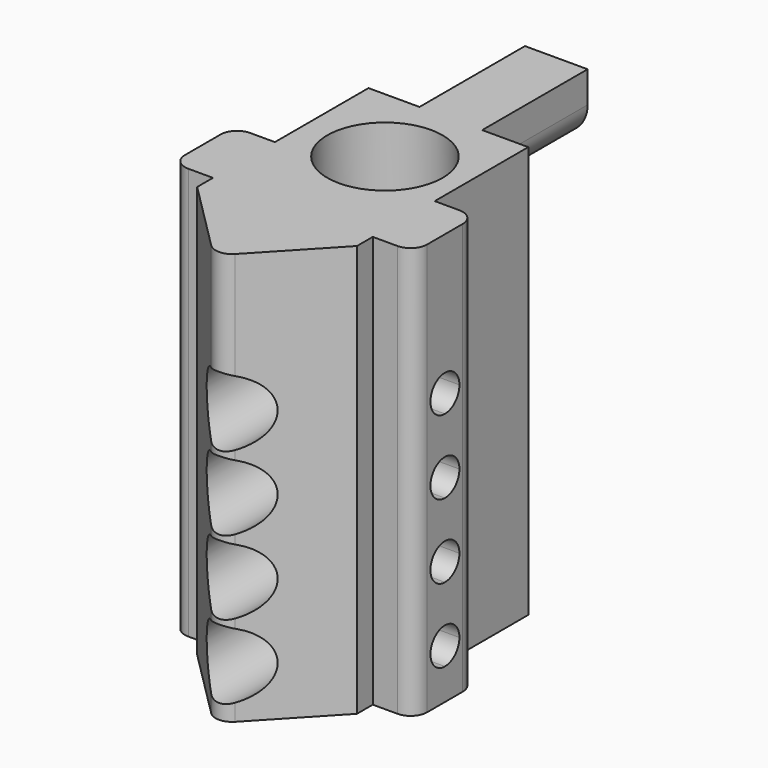
from build123d import *

# Parameters (mm, degrees)
F0_W      = 9.7
F0_H      = 7.1
F0_H_2    = 4.7
F0_W_2    = 2.5
F0_H_3    = 1.2
F1_DEPTH  = 25
F2_R      = 1
F3_R      = 2.1
F4_DEPTH  = 30
F6_DEPTH  = 8
F7_R      = 3.5
F8_DEPTH  = 5
F10_DEPTH = 6


with BuildPart() as f1:
    # F0 (on Top) → F1 (new body)
    with BuildSketch(Plane.XY):
        with Locations((-0.15, -0.179021287)):
            Rectangle(F0_W, F0_H)
        with Locations((-0.15, -6.079021287)):
            Rectangle(F0_W, F0_H_2)
        with Locations((-6.25, -6.079021287)):
            Rectangle(F0_W_2, F0_H_2)
        with Locations((5.95, -6.079021287)):
            Rectangle(F0_W_2, F0_H_2)
        with Locations((-0.15, -9.029021287)):
            Rectangle(F0_W, F0_H_3)
        Polygon((4.7, -9.629021287), (-5, -9.629021287), (0, -14.629021287), align=None)
    extrude(amount=F1_DEPTH)

    # F2
    f2_edges = [f1.edges().sort_by_distance(p)[0] for p in [
        (-7.5, -3.729021, 12.5),
        (-7.5, -8.429021, 12.5),
        (7.2, -3.729021, 12.5),
        (7.2, -8.429021, 12.5),
        (0, -14.629021, 12.5),
    ]]
    fillet(f2_edges, radius=F2_R)

    # F3 (on face) → F4 (cut)
    with BuildSketch(Plane(origin=(0, 3.370978713, 0), x_dir=(-1, 0, 0), z_dir=(0, 1, 0))):
        with Locations((0, 7.5)):
            Circle(F3_R)
        with Locations((0, 12)):
            Circle(F3_R)
        with Locations((0, 3)):
            Circle(F3_R)
        with Locations((0, 16.5)):
            Circle(F3_R)
    extrude(amount=-F4_DEPTH, mode=Mode.SUBTRACT)

    # F5 (on face) → F6 (join)
    with BuildSketch(Plane(origin=(0, 3.370978713, 0), x_dir=(-1, 0, 0), z_dir=(0, 1, 0))):
        with BuildLine():
            ThreePointArc((0, 25), (-1.3453995809, 24.4427172468), (-1.9026823342, 23.0973176658))
            ThreePointArc((-1.9026823342, 23.0973176658), (0, 21.1946353316), (1.9026823342, 23.0973176658))
            ThreePointArc((1.9026823342, 23.0973176658), (1.3453995809, 24.4427172468), (0, 25))
        make_face()
        with BuildLine():
            Line((-1.9026823342, 25), (-1.9026823342, 23.0973176658))
            ThreePointArc((-1.9026823342, 23.0973176658), (-1.3453995809, 24.4427172468), (0, 25))
            Line((0, 25), (-1.9026823342, 25))
        make_face()
        with BuildLine():
            ThreePointArc((0, 25), (1.3453995809, 24.4427172468), (1.9026823342, 23.0973176658))
            Line((1.9026823342, 23.0973176658), (1.9026823342, 25))
            Line((1.9026823342, 25), (0, 25))
        make_face()
    extrude(amount=F6_DEPTH)

    # F7 (on face) → F8 (cut)
    with BuildSketch(Plane.XY.offset(25)):
        with Locations((0, -1.629021287)):
            Circle(F7_R)
    extrude(amount=-F8_DEPTH, mode=Mode.SUBTRACT)

    # F9 (on face) → F10 (cut)
    with BuildSketch(Plane.YZ.offset(7.2)):
        with BuildLine():
            ThreePointArc((-6.079021287, 15.4), (-5.3012038277, 15.7221825407), (-4.979021287, 16.5))
            ThreePointArc((-4.979021287, 16.5), (-5.3012038277, 17.2778174593), (-6.079021287, 17.6))
            Line((-6.079021287, 17.6), (-6.079021287, 15.4))
        make_face()
        with BuildLine():
            ThreePointArc((-4.979021287, 3), (-5.3012038277, 3.7778174593), (-6.079021287, 4.1))
            Line((-6.079021287, 4.1), (-6.079021287, 1.9))
            ThreePointArc((-6.079021287, 1.9), (-5.3012038277, 2.2221825407), (-4.979021287, 3))
        make_face()
        with BuildLine():
            Line((-6.079021287, 1.9), (-6.079021287, 4.1))
            ThreePointArc((-6.079021287, 4.1), (-7.179021287, 3), (-6.079021287, 1.9))
        make_face()
        with BuildLine():
            ThreePointArc((-4.979021287, 7.5), (-5.3012038277, 8.2778174593), (-6.079021287, 8.6))
            Line((-6.079021287, 8.6), (-6.079021287, 6.4))
            ThreePointArc((-6.079021287, 6.4), (-5.3012038277, 6.7221825407), (-4.979021287, 7.5))
        make_face()
        with BuildLine():
            Line((-6.079021287, 6.4), (-6.079021287, 8.6))
            ThreePointArc((-6.079021287, 8.6), (-7.179021287, 7.5), (-6.079021287, 6.4))
        make_face()
        with BuildLine():
            ThreePointArc((-4.979021287, 12), (-5.3012038277, 12.7778174593), (-6.079021287, 13.1))
            Line((-6.079021287, 13.1), (-6.079021287, 10.9))
            ThreePointArc((-6.079021287, 10.9), (-5.3012038277, 11.2221825407), (-4.979021287, 12))
        make_face()
        with BuildLine():
            Line((-6.079021287, 10.9), (-6.079021287, 13.1))
            ThreePointArc((-6.079021287, 13.1), (-7.179021287, 12), (-6.079021287, 10.9))
        make_face()
        with BuildLine():
            Line((-6.079021287, 15.4), (-6.079021287, 17.6))
            ThreePointArc((-6.079021287, 17.6), (-7.179021287, 16.5), (-6.079021287, 15.4))
        make_face()
    extrude(amount=-F10_DEPTH, mode=Mode.SUBTRACT)


solid = f1.part
